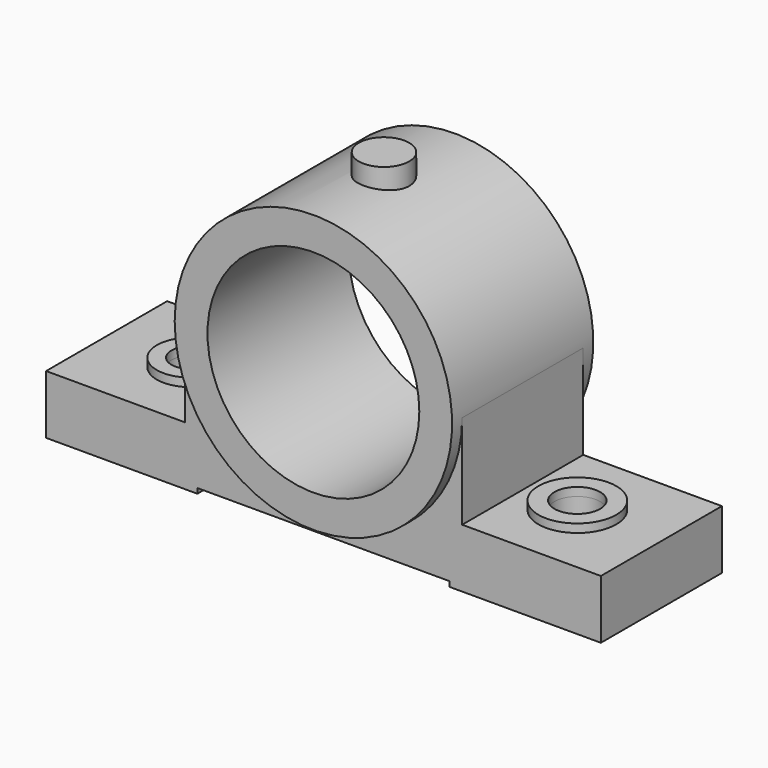
from build123d import *

# Parameters (mm, degrees)
F0_R      = 63
F1_DEPTH  = 52.5
F2_DEPTH  = 45
F3_R      = 13.5942815287
F4_DEPTH  = 50
F3_R_2    = 20.1261319814
F3_R_3    = 11.4679685697
F3_R_4    = 23.1722823774
F5_DEPTH  = 5
F6_DEPTH  = 50
F7_W      = 150
F7_H      = 90
F8_DEPTH  = 3
F10_R     = 15
F11_DEPTH = 25


with BuildPart() as f1:
    # F0 (on Front) → F1 (new body, symmetric)
    with BuildSketch(Plane.XZ):
        with BuildLine():
            ThreePointArc((82.5, 91), (0, 173.5), (-82.5, 91))
            ThreePointArc((-82.5, 91), (0, 8.5), (82.5, 91))
        make_face()
        with Locations((0, 91)):
            Circle(F0_R, mode=Mode.SUBTRACT)
    extrude(amount=F1_DEPTH, both=True)

    # F0 (on Front) → F2 (join, symmetric)
    with BuildSketch(Plane.XZ):
        with BuildLine():
            Line((-165, 0), (0, 0))
            Line((0, 0), (165, 0))
            Line((165, 0), (165, 35))
            Line((165, 35), (82.5, 35))
            Line((82.5, 35), (82.5, 91))
            ThreePointArc((82.5, 91), (0, 8.5), (-82.5, 91))
            Line((-82.5, 91), (-82.5, 35))
            Line((-82.5, 35), (-165, 35))
            Line((-165, 35), (-165, 0))
        make_face()
        with BuildLine():
            ThreePointArc((82.5, 91), (0, 173.5), (-82.5, 91))
            ThreePointArc((-82.5, 91), (0, 8.5), (82.5, 91))
        make_face()
        with Locations((0, 91)):
            Circle(F0_R, mode=Mode.SUBTRACT)
    extrude(amount=F2_DEPTH, both=True)

    # F3 (on face) → F4 (cut)
    with BuildSketch(Plane.XY.offset(35)):
        with Locations((115, 0)):
            Circle(F3_R)
    extrude(amount=-F4_DEPTH, mode=Mode.SUBTRACT)

    # F3 (on face) → F5 (join)
    with BuildSketch(Plane.XY.offset(35)):
        with Locations((-115, 0)):
            Circle(F3_R_2)
        with Locations((-115, 0)):
            Circle(F3_R_3, mode=Mode.SUBTRACT)
        with Locations((115, 0)):
            Circle(F3_R_4)
        with Locations((115, 0)):
            Circle(F3_R, mode=Mode.SUBTRACT)
    extrude(amount=F5_DEPTH)

    # F6 (cut): a face of the model
    f6_faces = [f1.faces().sort_by_distance(p)[0] for p in [
        (-115, 0, 35),
    ]]
    extrude(f6_faces, amount=-F6_DEPTH, mode=Mode.SUBTRACT)

    # F7 (on face) → F8 (cut)
    with BuildSketch(Plane(origin=(0, 0, 0), x_dir=(1, 0, 0), z_dir=(0, 0, -1))):
        Rectangle(F7_W, F7_H)
    extrude(amount=-F8_DEPTH, mode=Mode.SUBTRACT)

    # F10 (on offset) → F11 (join)
    with BuildSketch(Plane.XY.offset(185)):
        Circle(F10_R)
    extrude(amount=-F11_DEPTH)


solid = f1.part
